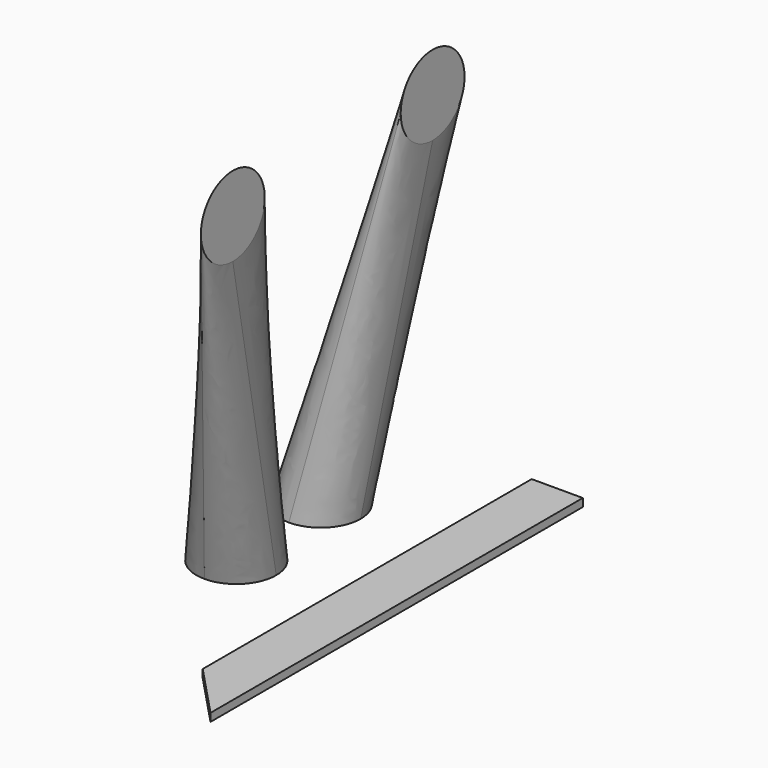
from build123d import *

# Parameters (mm, degrees)
SKETCH084_R  = 2.5
SKETCH085_R  = 2.5
SKETCH086_R  = 2.5
SKETCH087_R  = 2.5
PAD051_DEPTH = 0.500001


with BuildPart() as part:
    # Sketch084 (on Face1 of Binder016) → AdditiveLoft010 section 0
    with BuildSketch(Plane.XY.offset(1.4)):
        with Locations((63.386509, -20.255445)):
            Circle(SKETCH084_R)
    # Sketch085 (on Face1 of Binder017) → AdditiveLoft010 section 1
    with BuildSketch(Plane(origin=(69.879995, 0, -1.2e-05), x_dir=(0, -1, 0), z_dir=(-1, 0, 0))):
        with Locations((28.6475, 25.912419)):
            Circle(SKETCH085_R)
    loft()

    # Sketch086 (on Face1 of Binder016) → AdditiveLoft011 section 0
    with BuildSketch(Plane.XY.offset(1.4)):
        with Locations((62.881371, -13.010396)):
            Circle(SKETCH086_R)
    # Sketch087 (on Face1 of Binder017) → AdditiveLoft011 section 1
    with BuildSketch(Plane(origin=(69.879995, 0, -1.2e-05), x_dir=(0, -1, 0), z_dir=(-1, 0, 0))):
        with Locations((13.005949, 26.22658)):
            Circle(SKETCH087_R)
    loft()

    # Sketch088 (on Face1 of Binder018) → Pad051 (new body)
    with BuildSketch(Plane(origin=(0, 0, 1.900012), x_dir=(1, 0, 0), z_dir=(0, 0, -1))):
        Polygon((69.879995, 5.25), (73.079995, 5.25), (73.079995, 34.392883), (69.879995, 31.003741), align=None)
    extrude(amount=PAD051_DEPTH)


solid = part.part
